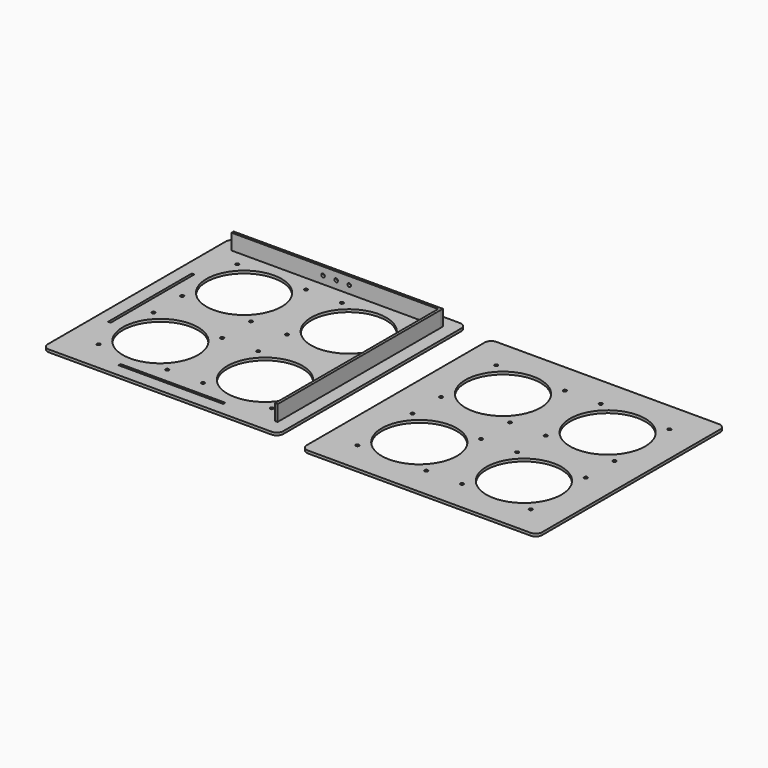
from build123d import *

# Parameters (mm, degrees)
F0_W     = 160
F0_H     = 4
F0_R     = 2.5
F0_R_2   = 57.5
F0_W_2   = 4
F0_H_2   = 160
F1_DEPTH = 4
F2_R     = 2.75
F2_W     = 160
F2_H     = 4
F3_DEPTH = 4
F4_W     = 160
F4_H     = 4
F5_DEPTH = 4


with BuildPart() as f1:
    # F0 (on Top) → F1 (new body)
    with BuildSketch(Plane.XY):
        with BuildLine():
            Line((159.693729, 193.615401), (-180.306271, 193.615401))
            ThreePointArc((-180.306271, 193.615401), (-187.377339, 190.686469), (-190.306271, 183.615401))
            Line((-190.306271, 183.615401), (-190.306271, -156.384599))
            ThreePointArc((-190.306271, -156.384599), (-187.377339, -163.455667), (-180.306271, -166.384599))
            Line((-180.306271, -166.384599), (159.693729, -166.384599))
            ThreePointArc((159.693729, -166.384599), (166.764797, -163.455667), (169.693729, -156.384599))
            Line((169.693729, -156.384599), (169.693729, 183.615401))
            ThreePointArc((169.693729, 183.615401), (166.764797, 190.686469), (159.693729, 193.615401))
        make_face()
        with Locations((-10.306271, -144.384599)):
            Rectangle(F0_W, F0_H, mode=Mode.SUBTRACT)
        with Locations((-142.844305, -118.922633)):
            Circle(F0_R, mode=Mode.SUBTRACT)
        with Locations((-37.768237, -118.922633)):
            Circle(F0_R, mode=Mode.SUBTRACT)
        with Locations((17.155695, -118.922633)):
            Circle(F0_R, mode=Mode.SUBTRACT)
        with Locations((122.231763, -118.922633)):
            Circle(F0_R, mode=Mode.SUBTRACT)
        with Locations((-90.306271, -66.384599)):
            Circle(F0_R_2, mode=Mode.SUBTRACT)
        with Locations((-142.844305, -13.846565)):
            Circle(F0_R, mode=Mode.SUBTRACT)
        with Locations((-37.768237, -13.846565)):
            Circle(F0_R, mode=Mode.SUBTRACT)
        with Locations((69.693729, -66.384599)):
            Circle(F0_R_2, mode=Mode.SUBTRACT)
        with Locations((17.155695, -13.846565)):
            Circle(F0_R, mode=Mode.SUBTRACT)
        with Locations((122.231763, -13.846565)):
            Circle(F0_R, mode=Mode.SUBTRACT)
        with Locations((-168.306271, 13.615401)):
            Rectangle(F0_W_2, F0_H_2, mode=Mode.SUBTRACT)
        with Locations((-142.844305, 41.077367)):
            Circle(F0_R, mode=Mode.SUBTRACT)
        with Locations((-37.768237, 41.077367)):
            Circle(F0_R, mode=Mode.SUBTRACT)
        with Locations((-90.306271, 93.615401)):
            Circle(F0_R_2, mode=Mode.SUBTRACT)
        with Locations((17.155695, 41.077367)):
            Circle(F0_R, mode=Mode.SUBTRACT)
        with Locations((147.693729, 13.615401)):
            Rectangle(F0_W_2, F0_H_2, mode=Mode.SUBTRACT)
        with Locations((122.231763, 41.077367)):
            Circle(F0_R, mode=Mode.SUBTRACT)
        with Locations((69.693729, 93.615401)):
            Circle(F0_R_2, mode=Mode.SUBTRACT)
        with Locations((-142.844305, 146.153435)):
            Circle(F0_R, mode=Mode.SUBTRACT)
        with Locations((-37.768237, 146.153435)):
            Circle(F0_R, mode=Mode.SUBTRACT)
        with Locations((-10.306271, 171.615401)):
            Rectangle(F0_W, F0_H, mode=Mode.SUBTRACT)
        with Locations((17.155695, 146.153435)):
            Circle(F0_R, mode=Mode.SUBTRACT)
        with Locations((122.231763, 146.153435)):
            Circle(F0_R, mode=Mode.SUBTRACT)
        with BuildLine():
            Line((564.359995, 182.760432), (224.359995, 182.760432))
            ThreePointArc((224.359995, 182.760432), (217.288927, 179.8315), (214.359995, 172.760432))
            Line((214.359995, 172.760432), (214.359995, -167.239568))
            ThreePointArc((214.359995, -167.239568), (217.288927, -174.310636), (224.359995, -177.239568))
            Line((224.359995, -177.239568), (564.359995, -177.239568))
            ThreePointArc((564.359995, -177.239568), (571.431063, -174.310636), (574.359995, -167.239568))
            Line((574.359995, -167.239568), (574.359995, 172.760432))
            ThreePointArc((574.359995, 172.760432), (571.431063, 179.8315), (564.359995, 182.760432))
        make_face()
        with Locations((261.821961, -129.777602)):
            Circle(F0_R, mode=Mode.SUBTRACT)
        with Locations((366.898029, -129.777602)):
            Circle(F0_R, mode=Mode.SUBTRACT)
        with Locations((421.821961, -129.777602)):
            Circle(F0_R, mode=Mode.SUBTRACT)
        with Locations((526.898029, -129.777602)):
            Circle(F0_R, mode=Mode.SUBTRACT)
        with Locations((314.359995, -77.239568)):
            Circle(F0_R_2, mode=Mode.SUBTRACT)
        with Locations((261.821961, -24.701534)):
            Circle(F0_R, mode=Mode.SUBTRACT)
        with Locations((366.898029, -24.701534)):
            Circle(F0_R, mode=Mode.SUBTRACT)
        with Locations((474.359995, -77.239568)):
            Circle(F0_R_2, mode=Mode.SUBTRACT)
        with Locations((421.821961, -24.701534)):
            Circle(F0_R, mode=Mode.SUBTRACT)
        with Locations((526.898029, -24.701534)):
            Circle(F0_R, mode=Mode.SUBTRACT)
        with Locations((261.821961, 30.222398)):
            Circle(F0_R, mode=Mode.SUBTRACT)
        with Locations((366.898029, 30.222398)):
            Circle(F0_R, mode=Mode.SUBTRACT)
        with Locations((314.359995, 82.760432)):
            Circle(F0_R_2, mode=Mode.SUBTRACT)
        with Locations((421.821961, 30.222398)):
            Circle(F0_R, mode=Mode.SUBTRACT)
        with Locations((526.898029, 30.222398)):
            Circle(F0_R, mode=Mode.SUBTRACT)
        with Locations((474.359995, 82.760432)):
            Circle(F0_R_2, mode=Mode.SUBTRACT)
        with Locations((261.821961, 135.298466)):
            Circle(F0_R, mode=Mode.SUBTRACT)
        with Locations((366.898029, 135.298466)):
            Circle(F0_R, mode=Mode.SUBTRACT)
        with Locations((421.821961, 135.298466)):
            Circle(F0_R, mode=Mode.SUBTRACT)
        with Locations((526.898029, 135.298466)):
            Circle(F0_R, mode=Mode.SUBTRACT)
    extrude(amount=F1_DEPTH)


with BuildPart() as f3:
    # F2 (on face) → F3 (new body)
    with BuildSketch(Plane.XZ.offset(-173.615401)):
        Polygon((-170.306271, 4), (-90.306271, 4), (69.693729, 4), (149.693729, 4), (149.693729, 28), (-170.306271, 28), align=None)
        with Locations((-30.306271, 16)):
            Circle(F2_R, mode=Mode.SUBTRACT)
        with Locations((-10.306271, 16)):
            Circle(F2_R, mode=Mode.SUBTRACT)
        with Locations((9.693729, 16)):
            Circle(F2_R, mode=Mode.SUBTRACT)
        with Locations((-10.306271, 2)):
            Rectangle(F2_W, F2_H)
    extrude(amount=F3_DEPTH)


with BuildPart() as f5:
    # F4 (on face) → F5 (new body)
    with BuildSketch(Plane(origin=(149.693729, 0, 0), x_dir=(0, -1, 0), z_dir=(-1, 0, 0))):
        Polygon((-169.615401, 4), (-93.615401, 4), (66.384599, 4), (142.384599, 4), (142.384599, 28), (-169.615401, 28), align=None)
        with Locations((-13.615401, 2)):
            Rectangle(F4_W, F4_H)
    extrude(amount=F5_DEPTH)


solid = Compound([f1.part, f3.part, f5.part])
